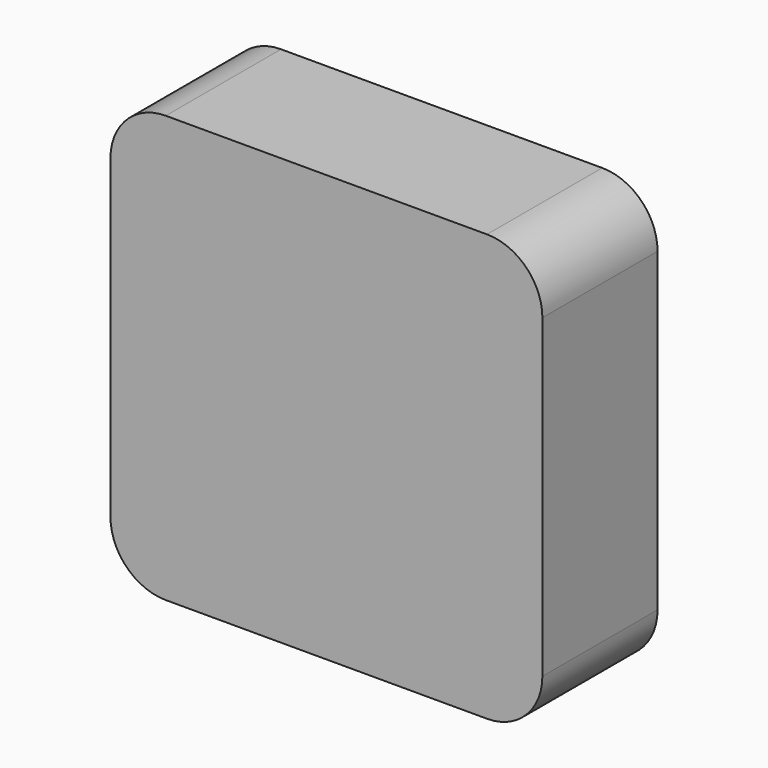
from build123d import *

# Parameters (mm, degrees)
CYLINDER005_W          = 10
CYLINDER005_H          = 26
CYLINDER005_ANGLE      = 90
BOX003_W               = 10
BOX003_H               = 26
BOX003_DEPTH           = 10
CUT002_PLACEMENT_ANGLE = 90
CYLINDER006_W          = 10
CYLINDER006_H          = 26
CYLINDER006_ANGLE      = 90
BOX004_W               = 10
BOX004_H               = 26
BOX004_DEPTH           = 10
CUT003_PLACEMENT_ANGLE = 180
CYLINDER007_W          = 10
CYLINDER007_H          = 26
CYLINDER007_ANGLE      = 90
BOX005_W               = 10
BOX005_H               = 26
BOX005_DEPTH           = 10
CUT004_PLACEMENT_ANGLE = 90
CYLINDER004_W          = 10
CYLINDER004_H          = 26
CYLINDER004_ANGLE      = 90
BOX002_W               = 10
BOX002_H               = 26
BOX002_DEPTH           = 10
BOX001_W               = 78
BOX001_H               = 26
BOX001_DEPTH           = 77


with BuildPart() as cylinder005:
    # Cylinder005 → Cylinder005 (revolve)
    with BuildSketch(Plane(origin=(0, 26, 0), x_dir=(1, 0, 0), z_dir=(0, 0, -1))):
        with Locations((5, 13)):
            Rectangle(CYLINDER005_W, CYLINDER005_H)
    revolve(axis=Axis((0, 26, 0), (0, -1, 0)), revolution_arc=CYLINDER005_ANGLE)


with BuildPart() as cut002:
    # Box003 → Box003 (new body)
    with BuildSketch(Plane.XY):
        with Locations((5, 13)):
            Rectangle(BOX003_W, BOX003_H)
    extrude(amount=BOX003_DEPTH)

    # Cut002: cut Cylinder005
    add(cylinder005.part, mode=Mode.SUBTRACT)


with BuildPart() as cut002_1:
    # Cut002 placement: moved
    add(cut002.part.moved(Location((68, 0, 10))).rotate(Axis((68, 0, 10), (0, 1, 0)), CUT002_PLACEMENT_ANGLE))


with BuildPart() as cylinder006:
    # Cylinder006 → Cylinder006 (revolve)
    with BuildSketch(Plane(origin=(0, 26, 0), x_dir=(1, 0, 0), z_dir=(0, 0, -1))):
        with Locations((5, 13)):
            Rectangle(CYLINDER006_W, CYLINDER006_H)
    revolve(axis=Axis((0, 26, 0), (0, -1, 0)), revolution_arc=CYLINDER006_ANGLE)


with BuildPart() as cut003:
    # Box004 → Box004 (new body)
    with BuildSketch(Plane.XY):
        with Locations((5, 13)):
            Rectangle(BOX004_W, BOX004_H)
    extrude(amount=BOX004_DEPTH)

    # Cut003: cut Cylinder006
    add(cylinder006.part, mode=Mode.SUBTRACT)


with BuildPart() as cut003_1:
    # Cut003 placement: moved
    add(cut003.part.moved(Location((10, 0, 10))).rotate(Axis((10, 0, 10), (0, 1, 0)), CUT003_PLACEMENT_ANGLE))


with BuildPart() as cylinder007:
    # Cylinder007 → Cylinder007 (revolve)
    with BuildSketch(Plane(origin=(0, 26, 0), x_dir=(1, 0, 0), z_dir=(0, 0, -1))):
        with Locations((5, 13)):
            Rectangle(CYLINDER007_W, CYLINDER007_H)
    revolve(axis=Axis((0, 26, 0), (0, -1, 0)), revolution_arc=CYLINDER007_ANGLE)


with BuildPart() as cut004:
    # Box005 → Box005 (new body)
    with BuildSketch(Plane.XY):
        with Locations((5, 13)):
            Rectangle(BOX005_W, BOX005_H)
    extrude(amount=BOX005_DEPTH)

    # Cut004: cut Cylinder007
    add(cylinder007.part, mode=Mode.SUBTRACT)


with BuildPart() as cut004_1:
    # Cut004 placement: moved
    add(cut004.part.moved(Location((10, 0, 67))).rotate(Axis((10, 0, 67), (0, -1, 0)), CUT004_PLACEMENT_ANGLE))


with BuildPart() as cylinder004:
    # Cylinder004 → Cylinder004 (revolve)
    with BuildSketch(Plane(origin=(0, 26, 0), x_dir=(1, 0, 0), z_dir=(0, 0, -1))):
        with Locations((5, 13)):
            Rectangle(CYLINDER004_W, CYLINDER004_H)
    revolve(axis=Axis((0, 26, 0), (0, -1, 0)), revolution_arc=CYLINDER004_ANGLE)


with BuildPart() as v25cuts:
    # Box002 → Box002 (new body)
    with BuildSketch(Plane.XY):
        with Locations((5, 13)):
            Rectangle(BOX002_W, BOX002_H)
    extrude(amount=BOX002_DEPTH)

    # Cut001: cut Cylinder004
    add(cylinder004.part, mode=Mode.SUBTRACT)


with BuildPart() as v25cuts_1:
    # Cut001 placement: moved
    add(v25cuts.part.moved(Location((68, 0, 67))))

    # Fusion004: union Cut002, Cut003, Cut004
    add(cut002_1.part)
    add(cut003_1.part)
    add(cut004_1.part)


with BuildPart() as obj1:
    # Box001 → Box001 (new body)
    with BuildSketch(Plane.XY):
        with Locations((39, 13)):
            Rectangle(BOX001_W, BOX001_H)
    extrude(amount=BOX001_DEPTH)

    # Cut005: cut v25Cuts
    add(v25cuts_1.part, mode=Mode.SUBTRACT)


with BuildPart() as obj1_1:
    # Cut005 placement: moved
    add(obj1.part.moved(Location((0, -2, 21))))


solid = obj1_1.part
